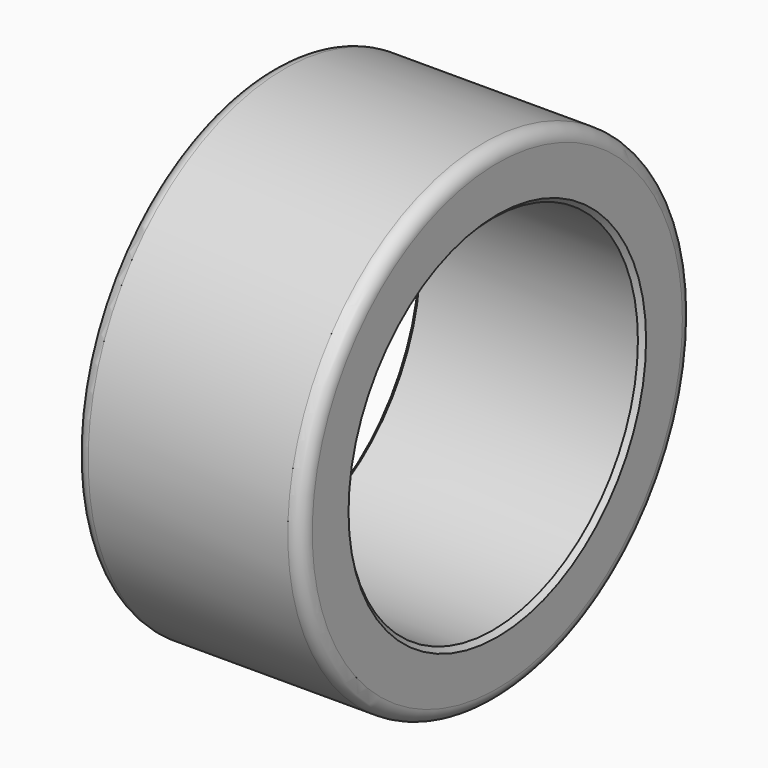
from build123d import *

# Parameters (mm, degrees)
SKETCH008_R   = 54
SKETCH008_R_2 = 40
PAD005_DEPTH  = 25
FILLET_R      = 3
CHAMFER_SIZE  = 1


with BuildPart() as part:
    # Sketch008 → Pad005 (new body, symmetric)
    with BuildSketch(Plane.YZ):
        Circle(SKETCH008_R)
        Circle(SKETCH008_R_2, mode=Mode.SUBTRACT)
    extrude(amount=PAD005_DEPTH, both=True)

    # Fillet
    fillet_edges = [part.edges().sort_by_distance(p)[0] for p in [
        (-25, -54, 0),
        (25, -54, 0),
    ]]
    fillet(fillet_edges, radius=FILLET_R)

    # Chamfer
    chamfer_edges = [part.edges().sort_by_distance(p)[0] for p in [
        (-25, -40, 0),
        (0, 40, 0),
        (25, -40, 0),
    ]]
    chamfer(chamfer_edges, length=CHAMFER_SIZE)


solid = part.part
